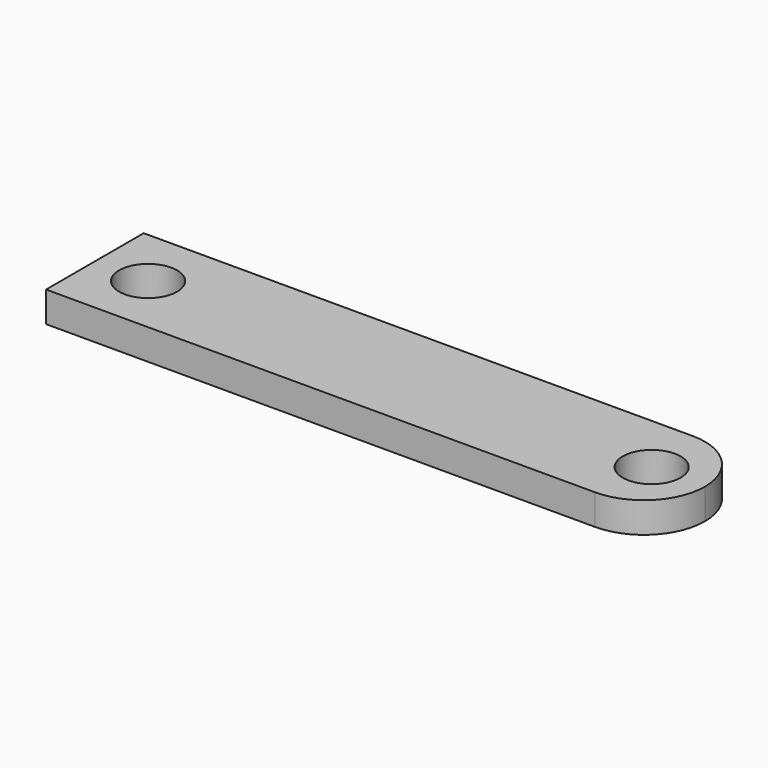
from build123d import *

# Parameters (mm, degrees)
F0_R     = 9.5
F1_DEPTH = 10


with BuildPart() as f1:
    # F0 (on Top) → F1 (new body)
    with BuildSketch(Plane.XY):
        with BuildLine():
            Line((-100, -20), (80, -20))
            ThreePointArc((80, -20), (94.142136, -14.142136), (100, 0))
            ThreePointArc((100, 0), (94.142136, 14.142136), (80, 20))
            Line((80, 20), (-100, 20))
            Line((-100, 20), (-100, -20))
        make_face()
        with Locations((-82.55, 0)):
            Circle(F0_R, mode=Mode.SUBTRACT)
        with Locations((82.55, 0)):
            Circle(F0_R, mode=Mode.SUBTRACT)
    extrude(amount=F1_DEPTH)


solid = f1.part
